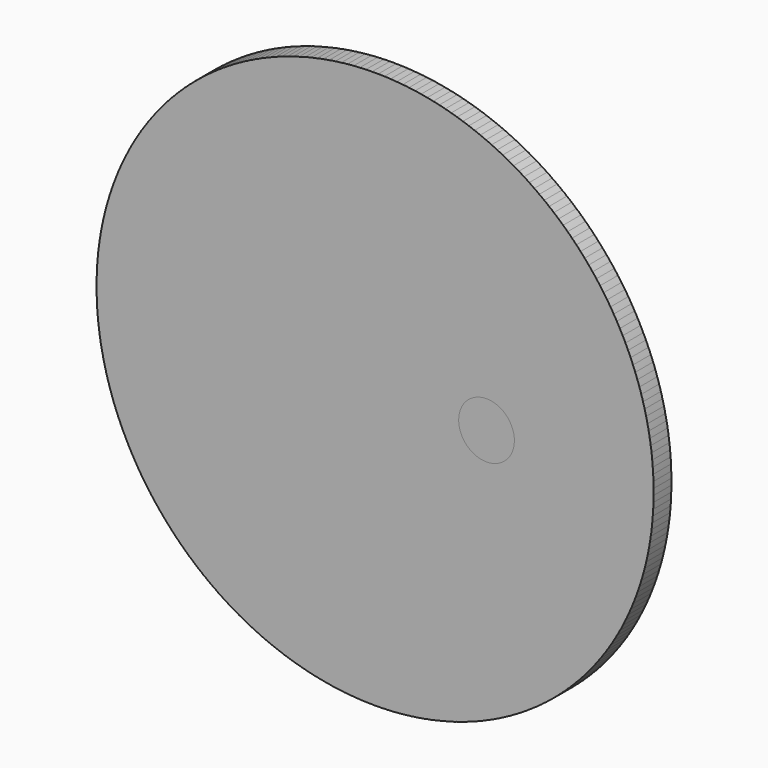
from build123d import *

# Parameters (mm, degrees)
F0_R     = 25
F2_DEPTH = 2
F3_D     = 5
F4_COUNT = 4


with BuildPart() as f2:
    # F0 (on Front) → F2 (new body)
    with BuildSketch(Plane.XZ):
        Circle(F0_R)
    extrude(amount=F2_DEPTH)

    # F3 (through all)
    with Locations(Plane(origin=(0, 0, 0), x_dir=(1, 0, 0), z_dir=(0, 1, 0))):
        with Locations((0, -10)):
            Hole(F3_D / 2)


with BuildPart() as f4_1:
    # F4: instance of F2
    add(f2.part.rotate(Axis((0, 0, 0), (0, -1, 0)), 1 * 360 / F4_COUNT))


with BuildPart() as f4_2:
    # F4: instance of F2
    add(f2.part.rotate(Axis((0, 0, 0), (0, -1, 0)), 2 * 360 / F4_COUNT))


with BuildPart() as f4_3:
    # F4: instance of F2
    add(f2.part.rotate(Axis((0, 0, 0), (0, -1, 0)), 3 * 360 / F4_COUNT))


solid = Compound([f2.part, f4_1.part, f4_2.part, f4_3.part])
